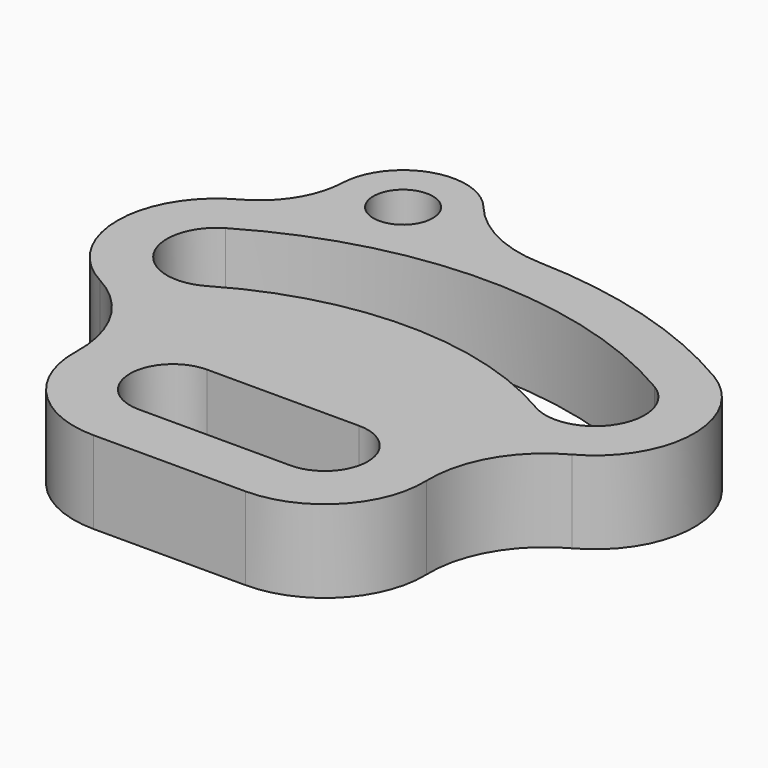
from build123d import *

# Parameters (mm, degrees)
F0_R     = 9
F1_DEPTH = 25


with BuildPart() as f1:
    # F0 (on Top) → F1 (new body)
    with BuildSketch(Plane.XY):
        with BuildLine():
            ThreePointArc((-24.100695, 156.899617), (-44.828984, 162.91459), (-57.806842, 145.668806))
            ThreePointArc((-57.806842, 145.668806), (-61.750067, 132.935178), (-71.485406, 123.829275))
            ThreePointArc((-71.485406, 123.829275), (-87.293644, 97.378424), (-71.450292, 70.948591))
            ThreePointArc((-71.450292, 70.948591), (-57.655484, 57.590544), (-52.98448, 38.964866))
            ThreePointArc((-52.98448, 38.964866), (-44.551636, 17.130716), (-23, 8))
            Line((-23, 8), (23, 8))
            ThreePointArc((23, 8), (44.551636, 17.130716), (52.98448, 38.964866))
            ThreePointArc((52.98448, 38.964866), (57.655484, 57.590544), (71.450292, 70.948591))
            ThreePointArc((71.450292, 70.948591), (87.287561, 96.793932), (72.504354, 123.256313))
            ThreePointArc((72.504354, 123.256313), (39.60509, 137.406102), (4.221762, 142.937667))
            ThreePointArc((4.221762, 142.937667), (-11.458365, 146.837486), (-24.100695, 156.899617))
        make_face()
        with BuildLine():
            Line((-23, 51), (22.999999, 51))
            ThreePointArc((22.999999, 51), (36, 38), (22.999999, 25))
            Line((22.999999, 25), (-23, 25))
            ThreePointArc((-23, 25), (-36, 38), (-23, 51))
        make_face(mode=Mode.SUBTRACT)
        with BuildLine():
            ThreePointArc((-49.688299, 84.469361), (-70.222634, 89.792993), (-64.899002, 110.327329))
            ThreePointArc((-64.899002, 110.327329), (0, 128), (64.899002, 110.327329))
            ThreePointArc((64.899002, 110.327329), (70.222634, 89.792993), (49.688299, 84.469361))
            ThreePointArc((49.688299, 84.469361), (0, 98), (-49.688299, 84.469361))
        make_face(mode=Mode.SUBTRACT)
        with Locations((-38.822857, 144.888874)):
            Circle(F0_R, mode=Mode.SUBTRACT)
    extrude(amount=F1_DEPTH)


solid = f1.part
